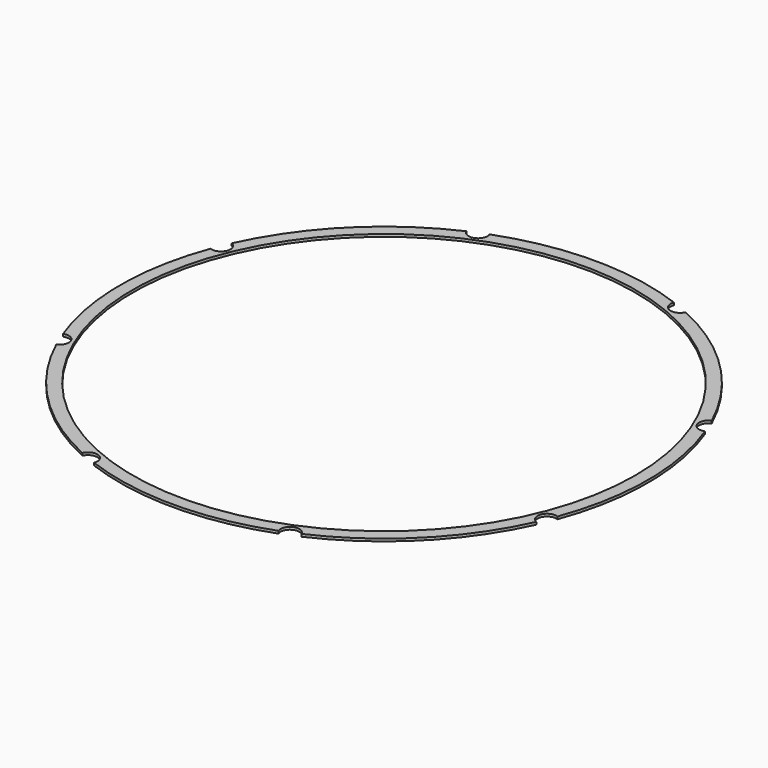
from build123d import *

# Parameters (mm, degrees)
CYLINDER1425_R               = 1.5
CYLINDER1425_DEPTH           = 32
CYLINDER1425_PLACEMENT_ANGLE = 45
CYLINDER1428_R               = 1.5
CYLINDER1428_DEPTH           = 32
CYLINDER1426_R               = 1.5
CYLINDER1426_DEPTH           = 32
CYLINDER1426_PLACEMENT_ANGLE = 135
CYLINDER1424_R               = 1.5
CYLINDER1424_DEPTH           = 32
CYLINDER1422_R               = 1.5
CYLINDER1422_DEPTH           = 32
CYLINDER1422_PLACEMENT_ANGLE = 225
CYLINDER1427_R               = 1.5
CYLINDER1427_DEPTH           = 32
CYLINDER1421_R               = 1.5
CYLINDER1421_DEPTH           = 32
CYLINDER1421_PLACEMENT_ANGLE = 45
CYLINDER1423_R               = 1.5
CYLINDER1423_DEPTH           = 32
COMPOUND970_PLACEMENT_ANGLE  = 22.5
TUBE134_R                    = 42
TUBE134_R_2                  = 40
TUBE134_DEPTH                = 0.4


with BuildPart() as obj1:
    # Cylinder1425 → Cylinder1425 (new body)
    with BuildSketch(Plane.XY):
        Circle(CYLINDER1425_R)
    extrude(amount=CYLINDER1425_DEPTH)


with BuildPart() as obj1_1:
    # Cylinder1425 placement: moved
    add(obj1.part.moved(Location((29.698485, -29.698485, 33.5))).rotate(Axis((29.698485, -29.698485, 33.5), (0, 0, 1)), CYLINDER1425_PLACEMENT_ANGLE))


with BuildPart() as obj2:
    # Cylinder1428 → Cylinder1428 (new body)
    with BuildSketch(Plane(origin=(42, 0, 33.5), x_dir=(0, 1, 0), z_dir=(0, 0, 1))):
        Circle(CYLINDER1428_R)
    extrude(amount=CYLINDER1428_DEPTH)


with BuildPart() as obj3:
    # Cylinder1426 → Cylinder1426 (new body)
    with BuildSketch(Plane.XY):
        Circle(CYLINDER1426_R)
    extrude(amount=CYLINDER1426_DEPTH)


with BuildPart() as obj3_1:
    # Cylinder1426 placement: moved
    add(obj3.part.moved(Location((29.698485, 29.698485, 33.5))).rotate(Axis((29.698485, 29.698485, 33.5), (0, 0, 1)), CYLINDER1426_PLACEMENT_ANGLE))


with BuildPart() as obj4:
    # Cylinder1424 → Cylinder1424 (new body)
    with BuildSketch(Plane(origin=(0, 42, 33.5), x_dir=(-1, 0, 0), z_dir=(0, 0, 1))):
        Circle(CYLINDER1424_R)
    extrude(amount=CYLINDER1424_DEPTH)


with BuildPart() as obj5:
    # Cylinder1422 → Cylinder1422 (new body)
    with BuildSketch(Plane.XY):
        Circle(CYLINDER1422_R)
    extrude(amount=CYLINDER1422_DEPTH)


with BuildPart() as obj5_1:
    # Cylinder1422 placement: moved
    add(obj5.part.moved(Location((-29.698485, 29.698485, 33.5))).rotate(Axis((-29.698485, 29.698485, 33.5), (0, 0, 1)), CYLINDER1422_PLACEMENT_ANGLE))


with BuildPart() as obj6:
    # Cylinder1427 → Cylinder1427 (new body)
    with BuildSketch(Plane(origin=(-42, 0, 33.5), x_dir=(0, -1, 0), z_dir=(0, 0, 1))):
        Circle(CYLINDER1427_R)
    extrude(amount=CYLINDER1427_DEPTH)


with BuildPart() as obj7:
    # Cylinder1421 → Cylinder1421 (new body)
    with BuildSketch(Plane.XY):
        Circle(CYLINDER1421_R)
    extrude(amount=CYLINDER1421_DEPTH)


with BuildPart() as obj7_1:
    # Cylinder1421 placement: moved
    add(obj7.part.moved(Location((-29.698485, -29.698485, 33.5))).rotate(Axis((-29.698485, -29.698485, 33.5), (0, 0, -1)), CYLINDER1421_PLACEMENT_ANGLE))


with BuildPart() as compound970:
    # Cylinder1423 → Cylinder1423 (new body)
    with BuildSketch(Plane(origin=(0, -42, 33.5), x_dir=(1, 0, 0), z_dir=(0, 0, 1))):
        Circle(CYLINDER1423_R)
    extrude(amount=CYLINDER1423_DEPTH)

    # Compound970: union obj1, obj2, obj3, obj4, obj5, obj6, obj7
    add(obj1_1.part)
    add(obj2.part)
    add(obj3_1.part)
    add(obj4.part)
    add(obj5_1.part)
    add(obj6.part)
    add(obj7_1.part)


with BuildPart() as compound970_1:
    # Compound970 placement: moved
    add(compound970.part.rotate(Axis((0, 0, 0), (0, 0, 1)), COMPOUND970_PLACEMENT_ANGLE))


with BuildPart() as cut517:
    # Tube134 → Tube134 (new body)
    with BuildSketch(Plane.XY.offset(38)):
        Circle(TUBE134_R)
        Circle(TUBE134_R_2, mode=Mode.SUBTRACT)
    extrude(amount=TUBE134_DEPTH)

    # Cut517: cut Compound970
    add(compound970_1.part, mode=Mode.SUBTRACT)


with BuildPart() as cut517_1:
    # Cut517 placement: moved
    add(cut517.part.moved(Location((0, 0, 1))))


solid = cut517_1.part
